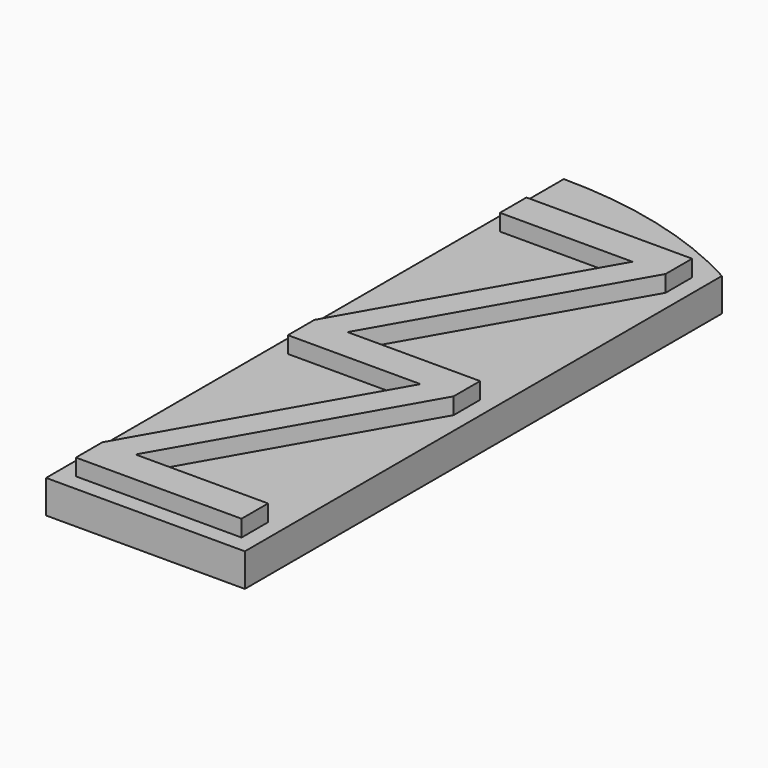
from build123d import *

# Parameters (mm, degrees)
PAD_DEPTH    = 1
PAD001_DEPTH = 0.5


with BuildPart() as part:
    # Sketch → Pad (new body)
    with BuildSketch(Plane.XY):
        with BuildLine():
            Line((-3, -16), (3, -16))
            Line((3, -16), (3, 2))
            ThreePointArc((3, 2), (0.096514, 3.144536), (-3, 3.534144))
            Line((-3, -16), (-3, 3.534144))
        make_face()
    extrude(amount=PAD_DEPTH)

    # Sketch001 → Pad001 (new body)
    with BuildSketch(Plane.XY.offset(1)):
        Polygon((2.5, 1.5), (-2.5, 1.5), (-2.5, 0.5), (1.5, 0.5), (-2.5, -6.5), (-2.5, -7.5), (1.5, -7.5), (-2.5, -14.5), (-2.5, -15.5), (2.5, -15.5), (2.5, -14.5), (-1.5, -14.5), (2.5, -7.5), (2.5, -6.5), (-1.5, -6.5), (2.5, 0.5), align=None)
    extrude(amount=PAD001_DEPTH)


solid = part.part
